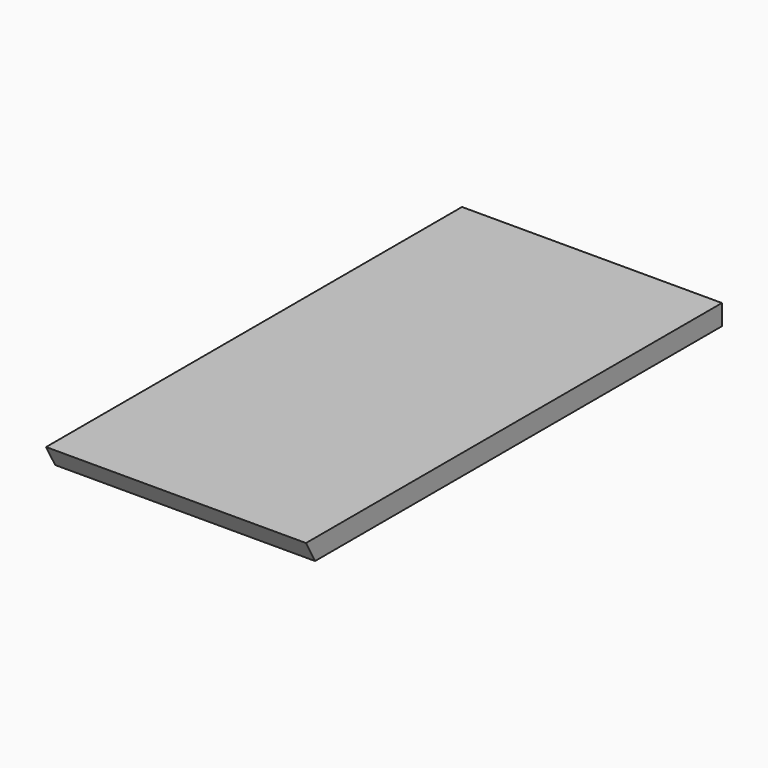
from build123d import *

# Parameters (mm, degrees)
F0_W     = 25.4
F0_H     = 50.8
F1_DEPTH = 2
F3_DEPTH = 25.4


with BuildPart() as f1:
    # F0 (on Top) → F1 (new body)
    with BuildSketch(Plane.XY):
        Rectangle(F0_W, F0_H)
    extrude(amount=F1_DEPTH)

    # F2 (on face) → F3 (cut)
    with BuildSketch(Plane.YZ.offset(12.7)):
        Polygon((-24.291382, 0), (-25.4, 2), (-25.4, 0), align=None)
    extrude(amount=-F3_DEPTH, mode=Mode.SUBTRACT)


solid = f1.part
